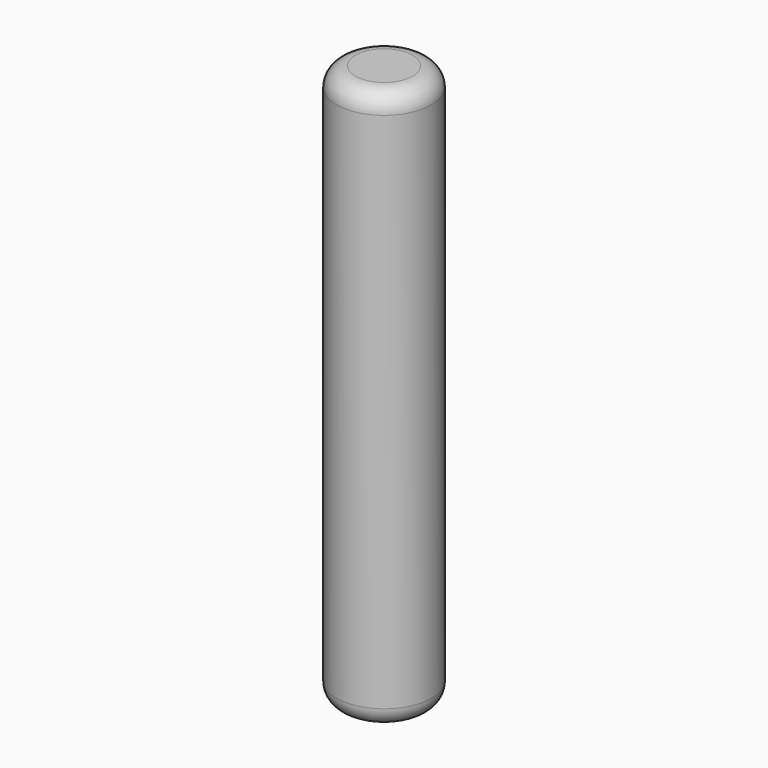
from build123d import *

# Parameters (mm, degrees)
SKETCH_R    = 2.5
PAD_DEPTH   = 29.5
FILLET_R    = 1
FILLET001_R = 1


with BuildPart() as part:
    # Sketch → Pad (new body)
    with BuildSketch(Plane.XY):
        Circle(SKETCH_R)
    extrude(amount=PAD_DEPTH)

    # Fillet
    fillet_edges = [part.edges().sort_by_distance(p)[0] for p in [
        (-2.5, 0, 0),
    ]]
    fillet(fillet_edges, radius=FILLET_R)

    # Fillet001
    fillet001_edges = [part.edges().sort_by_distance(p)[0] for p in [
        (-2.5, 0, 29.5),
    ]]
    fillet(fillet001_edges, radius=FILLET001_R)


solid = part.part
